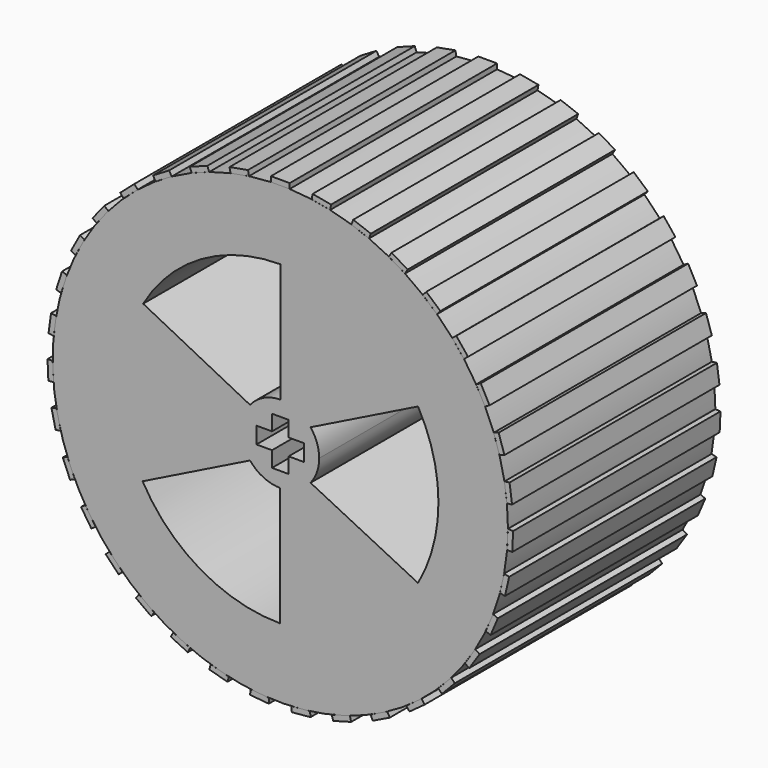
from build123d import *

# Parameters (mm, degrees)
F0_R     = 20
F1_DEPTH = 25
F2_DEPTH = 0.5
F3_COUNT = 35


with BuildPart() as f1:
    # F0 (on Front) → F1 (new body)
    with BuildSketch(Plane.XZ):
        with BuildLine():
            ThreePointArc((-0.9032650028, 21.9314069848), (-15.1982866335, -15.8371267409), (21.95, 0))
            ThreePointArc((21.95, 0), (15.837658927, 15.1977320582), (0.9048009374, 21.9313436721))
            Line((0.9048009374, 21.9313436721), (-0.9032650028, 21.9314069848))
        make_face()
        Circle(F0_R, mode=Mode.SUBTRACT)
        Circle(F0_R)
        with BuildLine():
            ThreePointArc((13.2807377049, 7.4956324625), (14.7494703295, 3.875), (15.25, 0))
            ThreePointArc((15.25, 0), (14.7494703295, -3.875), (13.2807377049, -7.4956324625))
            ThreePointArc((13.2807377049, -7.4956324625), (7.686523731, -13.1711750779), (-0.0066880174, -15.2499985335))
            ThreePointArc((-0.0066880174, -15.2499985335), (-7.6922993228, -13.1678028208), (-13.2807377049, -7.4956324625))
            ThreePointArc((-13.2807377049, -7.4956324625), (-15.2498907307, 0.0577295514), (-13.2236073782, 7.5959665553))
            ThreePointArc((-13.2236073782, 7.5959665553), (-7.6395029299, 13.198503513), (0, 15.25))
            ThreePointArc((0, 15.25), (7.6894117118, 13.169489266), (13.2807377049, 7.4956324625))
        make_face(mode=Mode.SUBTRACT)
        with BuildLine():
            Line((-2.9160991662, 2.3577246771), (-13.2236073782, 7.5959665553))
            ThreePointArc((-13.2236073782, 7.5959665553), (-15.2498907307, 0.0577295514), (-13.2807377049, -7.4956324625))
            Line((-13.2807377049, -7.4956324625), (-2.9160991662, -2.3577246771))
            ThreePointArc((-2.9160991662, -2.3577246771), (-3.75, 0), (-2.9160991662, 2.3577246771))
        make_face()
        with BuildLine():
            ThreePointArc((-0.0066880174, -15.2499985335), (7.686523731, -13.1711750779), (13.2807377049, -7.4956324625))
            Line((13.2807377049, -7.4956324625), (2.9160991662, -2.3577246771))
            ThreePointArc((2.9160991662, -2.3577246771), (1.612690857, -3.3855174198), (-0.0066880174, -3.7499940361))
            Line((-0.0066880174, -3.7499940361), (-0.0066880174, -15.2499985335))
        make_face()
        with BuildLine():
            Line((2.9160991662, 2.3577246771), (13.2807377049, 7.4956324625))
            ThreePointArc((13.2807377049, 7.4956324625), (7.6894117118, 13.169489266), (0, 15.25))
            Line((0, 15.25), (0, 3.75))
            ThreePointArc((0, 3.75), (1.6157092036, 3.3840779792), (2.9160991662, 2.3577246771))
        make_face()
        with BuildLine():
            ThreePointArc((3.75, 0), (3.5353834214, 1.2504255529), (2.9160991662, 2.3577246771))
            ThreePointArc((2.9160991662, 2.3577246771), (1.6157092036, 3.3840779792), (0, 3.75))
            ThreePointArc((0, 3.75), (-1.6157092036, 3.3840779792), (-2.9160991662, 2.3577246771))
            ThreePointArc((-2.9160991662, 2.3577246771), (-3.75, 0), (-2.9160991662, -2.3577246771))
            ThreePointArc((-2.9160991662, -2.3577246771), (-1.6187262653, -3.3826358477), (-0.0066880174, -3.7499940361))
            ThreePointArc((-0.0066880174, -3.7499940361), (1.612690857, -3.3855174198), (2.9160991662, -2.3577246771))
            ThreePointArc((2.9160991662, -2.3577246771), (3.5353834214, -1.2504255529), (3.75, 0))
        make_face()
        Polygon((-0.8, 2.3), (0, 2.3), (0.8, 2.3), (0.8, 0.8), (2.3, 0.8), (2.3, 0), (2.3, -0.8), (0.8, -0.8), (0.8, -2.3), (0, -2.3), (-0.8, -2.3), (-0.8, -0.8), (-2.3, -0.8), (-2.3, 0), (-2.3, 0.8), (-0.8, 0.8), align=None, mode=Mode.SUBTRACT)
    extrude(amount=F1_DEPTH)


with BuildPart() as f2:
    # F2 (new): a face of the model
    f2_faces = [f1.part.faces().sort_by_distance(p)[0] for p in [
        (0.0007679673, -12.5, 21.9313753285),
    ]]
    extrude(f2_faces, amount=F2_DEPTH)


with BuildPart() as f3_1:
    # F3: instance of F2
    add(f2.part.rotate(Axis((0, 0, 0), (0, 1, 0)), 1 * 360 / F3_COUNT))


with BuildPart() as f3_2:
    # F3: instance of F2
    add(f2.part.rotate(Axis((0, 0, 0), (0, 1, 0)), 2 * 360 / F3_COUNT))


with BuildPart() as f3_3:
    # F3: instance of F2
    add(f2.part.rotate(Axis((0, 0, 0), (0, 1, 0)), 3 * 360 / F3_COUNT))


with BuildPart() as f3_4:
    # F3: instance of F2
    add(f2.part.rotate(Axis((0, 0, 0), (0, 1, 0)), 4 * 360 / F3_COUNT))


with BuildPart() as f3_5:
    # F3: instance of F2
    add(f2.part.rotate(Axis((0, 0, 0), (0, 1, 0)), 5 * 360 / F3_COUNT))


with BuildPart() as f3_6:
    # F3: instance of F2
    add(f2.part.rotate(Axis((0, 0, 0), (0, 1, 0)), 6 * 360 / F3_COUNT))


with BuildPart() as f3_7:
    # F3: instance of F2
    add(f2.part.rotate(Axis((0, 0, 0), (0, 1, 0)), 7 * 360 / F3_COUNT))


with BuildPart() as f3_8:
    # F3: instance of F2
    add(f2.part.rotate(Axis((0, 0, 0), (0, 1, 0)), 8 * 360 / F3_COUNT))


with BuildPart() as f3_9:
    # F3: instance of F2
    add(f2.part.rotate(Axis((0, 0, 0), (0, 1, 0)), 9 * 360 / F3_COUNT))


with BuildPart() as f3_10:
    # F3: instance of F2
    add(f2.part.rotate(Axis((0, 0, 0), (0, 1, 0)), 10 * 360 / F3_COUNT))


with BuildPart() as f3_11:
    # F3: instance of F2
    add(f2.part.rotate(Axis((0, 0, 0), (0, 1, 0)), 11 * 360 / F3_COUNT))


with BuildPart() as f3_12:
    # F3: instance of F2
    add(f2.part.rotate(Axis((0, 0, 0), (0, 1, 0)), 12 * 360 / F3_COUNT))


with BuildPart() as f3_13:
    # F3: instance of F2
    add(f2.part.rotate(Axis((0, 0, 0), (0, 1, 0)), 13 * 360 / F3_COUNT))


with BuildPart() as f3_14:
    # F3: instance of F2
    add(f2.part.rotate(Axis((0, 0, 0), (0, 1, 0)), 14 * 360 / F3_COUNT))


with BuildPart() as f3_15:
    # F3: instance of F2
    add(f2.part.rotate(Axis((0, 0, 0), (0, 1, 0)), 15 * 360 / F3_COUNT))


with BuildPart() as f3_16:
    # F3: instance of F2
    add(f2.part.rotate(Axis((0, 0, 0), (0, 1, 0)), 16 * 360 / F3_COUNT))


with BuildPart() as f3_17:
    # F3: instance of F2
    add(f2.part.rotate(Axis((0, 0, 0), (0, 1, 0)), 17 * 360 / F3_COUNT))


with BuildPart() as f3_18:
    # F3: instance of F2
    add(f2.part.rotate(Axis((0, 0, 0), (0, 1, 0)), 18 * 360 / F3_COUNT))


with BuildPart() as f3_19:
    # F3: instance of F2
    add(f2.part.rotate(Axis((0, 0, 0), (0, 1, 0)), 19 * 360 / F3_COUNT))


with BuildPart() as f3_20:
    # F3: instance of F2
    add(f2.part.rotate(Axis((0, 0, 0), (0, 1, 0)), 20 * 360 / F3_COUNT))


with BuildPart() as f3_21:
    # F3: instance of F2
    add(f2.part.rotate(Axis((0, 0, 0), (0, 1, 0)), 21 * 360 / F3_COUNT))


with BuildPart() as f3_22:
    # F3: instance of F2
    add(f2.part.rotate(Axis((0, 0, 0), (0, 1, 0)), 22 * 360 / F3_COUNT))


with BuildPart() as f3_23:
    # F3: instance of F2
    add(f2.part.rotate(Axis((0, 0, 0), (0, 1, 0)), 23 * 360 / F3_COUNT))


with BuildPart() as f3_24:
    # F3: instance of F2
    add(f2.part.rotate(Axis((0, 0, 0), (0, 1, 0)), 24 * 360 / F3_COUNT))


with BuildPart() as f3_25:
    # F3: instance of F2
    add(f2.part.rotate(Axis((0, 0, 0), (0, 1, 0)), 25 * 360 / F3_COUNT))


with BuildPart() as f3_26:
    # F3: instance of F2
    add(f2.part.rotate(Axis((0, 0, 0), (0, 1, 0)), 26 * 360 / F3_COUNT))


with BuildPart() as f3_27:
    # F3: instance of F2
    add(f2.part.rotate(Axis((0, 0, 0), (0, 1, 0)), 27 * 360 / F3_COUNT))


with BuildPart() as f3_28:
    # F3: instance of F2
    add(f2.part.rotate(Axis((0, 0, 0), (0, 1, 0)), 28 * 360 / F3_COUNT))


with BuildPart() as f3_29:
    # F3: instance of F2
    add(f2.part.rotate(Axis((0, 0, 0), (0, 1, 0)), 29 * 360 / F3_COUNT))


with BuildPart() as f3_30:
    # F3: instance of F2
    add(f2.part.rotate(Axis((0, 0, 0), (0, 1, 0)), 30 * 360 / F3_COUNT))


with BuildPart() as f3_31:
    # F3: instance of F2
    add(f2.part.rotate(Axis((0, 0, 0), (0, 1, 0)), 31 * 360 / F3_COUNT))


with BuildPart() as f3_32:
    # F3: instance of F2
    add(f2.part.rotate(Axis((0, 0, 0), (0, 1, 0)), 32 * 360 / F3_COUNT))


with BuildPart() as f3_33:
    # F3: instance of F2
    add(f2.part.rotate(Axis((0, 0, 0), (0, 1, 0)), 33 * 360 / F3_COUNT))


with BuildPart() as f3_34:
    # F3: instance of F2
    add(f2.part.rotate(Axis((0, 0, 0), (0, 1, 0)), 34 * 360 / F3_COUNT))


solid = Compound([f1.part, f2.part, f3_1.part, f3_2.part, f3_3.part, f3_4.part, f3_5.part, f3_6.part, f3_7.part, f3_8.part, f3_9.part, f3_10.part, f3_11.part, f3_12.part, f3_13.part, f3_14.part, f3_15.part, f3_16.part, f3_17.part, f3_18.part, f3_19.part, f3_20.part, f3_21.part, f3_22.part, f3_23.part, f3_24.part, f3_25.part, f3_26.part, f3_27.part, f3_28.part, f3_29.part, f3_30.part, f3_31.part, f3_32.part, f3_33.part, f3_34.part])
